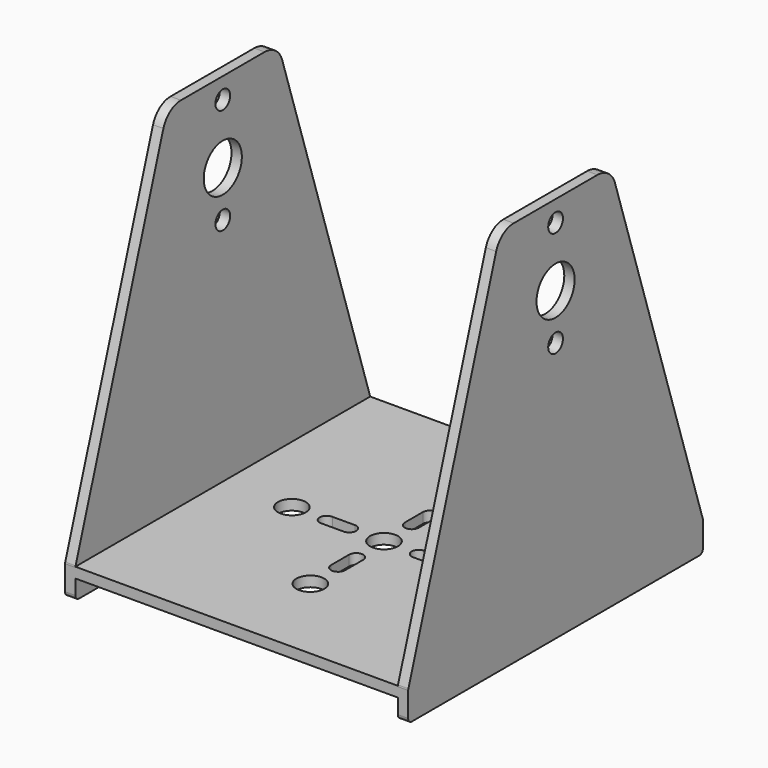
from build123d import *

# Parameters (mm, degrees)
F0_W     = 140
F0_H     = 160
F0_R     = 6.05
F1_DEPTH = 4.5
F2_R     = 4
F2_R_2   = 10.35
F3_DEPTH = 4.5


with BuildPart() as f1:
    # F0 (on Top) → F1 (new body)
    with BuildSketch(Plane.XY):
        Rectangle(F0_W, F0_H)
        with Locations((0, -40)):
            Circle(F0_R, mode=Mode.SUBTRACT)
        with BuildLine():
            ThreePointArc((3.05, -24.9), (0, -27.95), (-3.05, -24.9))
            Line((-3.05, -24.9), (-3.05, -15.1))
            ThreePointArc((-3.05, -15.1), (0, -12.05), (3.05, -15.1))
            Line((3.05, -15.1), (3.05, -24.9))
        make_face(mode=Mode.SUBTRACT)
        with Locations((-40, 0)):
            Circle(F0_R, mode=Mode.SUBTRACT)
        with BuildLine():
            ThreePointArc((-24.9, -3.05), (-27.95, 0), (-24.9, 3.05))
            Line((-24.9, 3.05), (-15.1, 3.05))
            ThreePointArc((-15.1, 3.05), (-12.05, 0), (-15.1, -3.05))
            Line((-15.1, -3.05), (-24.9, -3.05))
        make_face(mode=Mode.SUBTRACT)
        Circle(F0_R, mode=Mode.SUBTRACT)
        with BuildLine():
            ThreePointArc((24.9, 3.05), (27.95, 0), (24.9, -3.05))
            Line((24.9, -3.05), (15.1, -3.05))
            ThreePointArc((15.1, -3.05), (12.05, 0), (15.1, 3.05))
            Line((15.1, 3.05), (24.9, 3.05))
        make_face(mode=Mode.SUBTRACT)
        with BuildLine():
            ThreePointArc((-3.05, 24.9), (0, 27.95), (3.05, 24.9))
            Line((3.05, 24.9), (3.05, 15.1))
            ThreePointArc((3.05, 15.1), (0, 12.05), (-3.05, 15.1))
            Line((-3.05, 15.1), (-3.05, 24.9))
        make_face(mode=Mode.SUBTRACT)
        with Locations((40, 0)):
            Circle(F0_R, mode=Mode.SUBTRACT)
        with Locations((0, 40)):
            Circle(F0_R, mode=Mode.SUBTRACT)
    extrude(amount=F1_DEPTH)

    # F2 (on face) → F3 (join)
    with BuildSketch(Plane.YZ.offset(70)):
        with BuildLine():
            Line((22.7183887259, 159.5), (-22.7183887259, 159.5))
            ThreePointArc((-22.7183887259, 159.5), (-28.6048019805, 157.5839432826), (-32.2354749035, 152.5700277992))
            Line((-32.2354749035, 152.5700277992), (-79.9034172355, 4.7994065699))
            ThreePointArc((-79.9034172355, 4.7994065699), (-79.9757067686, 4.496178687), (-80, 4.18540101))
            Line((-80, 4.18540101), (-80, -6.5))
            ThreePointArc((-80, -6.5), (-79.4142135624, -7.9142135624), (-78, -8.5))
            Line((-78, -8.5), (78, -8.5))
            ThreePointArc((78, -8.5), (79.4142135624, -7.9142135624), (80, -6.5))
            Line((80, -6.5), (80, 4.18540101))
            ThreePointArc((80, 4.18540101), (79.9757067686, 4.496178687), (79.9034172355, 4.7994065699))
            Line((79.9034172355, 4.7994065699), (32.2354749035, 152.5700277992))
            ThreePointArc((32.2354749035, 152.5700277992), (28.6048019805, 157.5839432826), (22.7183887259, 159.5))
        make_face()
        with Locations((0, 104.5)):
            Circle(F2_R, mode=Mode.SUBTRACT)
        with Locations((0, 124.5)):
            Circle(F2_R_2, mode=Mode.SUBTRACT)
        with Locations((0, 150.5)):
            Circle(F2_R, mode=Mode.SUBTRACT)
    extrude(amount=F3_DEPTH)

    # F4: F1 across plane


with BuildPart() as f1_1:
    add(f1.part)
    add(f1.part.mirror(Plane.YZ))


solid = f1_1.part
